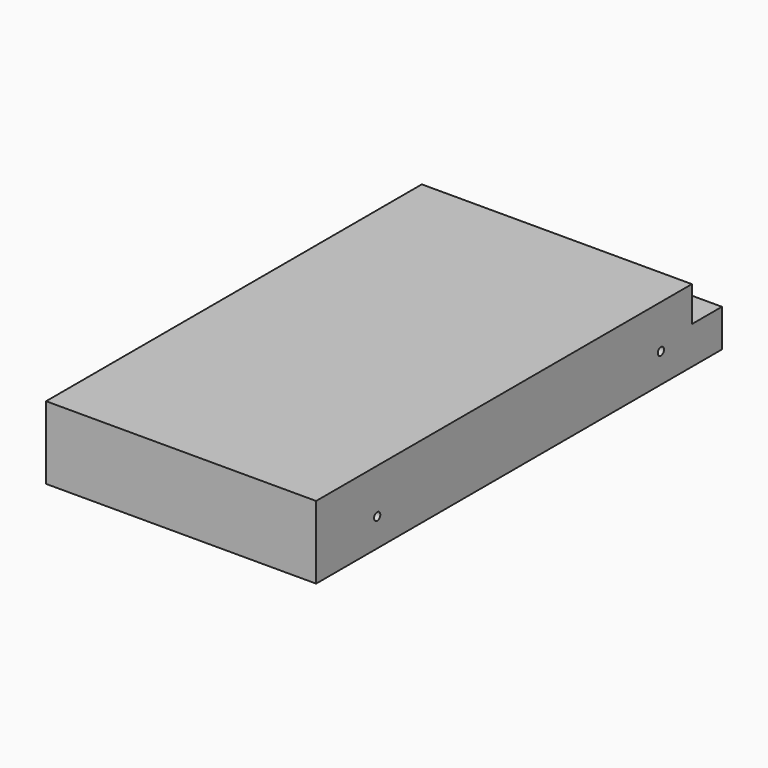
from build123d import *

# Parameters (mm, degrees)
F0_W      = 115
F0_H      = 216
F1_DEPTH  = 31
F3_W      = 115
F3_H      = 16
F4_DEPTH  = 15
F6_R      = 1.65
F7_DEPTH  = 5
F9_R      = 1.65
F10_DEPTH = 5


with BuildPart() as f1:
    # F0 (on Top) → F1 (new body)
    with BuildSketch(Plane.XY):
        Rectangle(F0_W, F0_H)
    extrude(amount=F1_DEPTH)

    # F3 (on offset) → F4 (cut)
    with BuildSketch(Plane.XY.offset(31)):
        with Locations((0, 100)):
            Rectangle(F3_W, F3_H)
    extrude(amount=-F4_DEPTH, mode=Mode.SUBTRACT)

    # F6 (on offset) → F7 (cut)
    with BuildSketch(Plane.YZ.offset(57.5)):
        with Locations((-75.5, 12)):
            Circle(F6_R)
        with Locations((75.5, 12.5)):
            Circle(F6_R)
    extrude(amount=-F7_DEPTH, mode=Mode.SUBTRACT)

    # F9 (on offset) → F10 (cut)
    with BuildSketch(Plane(origin=(-57.5, 0, 0), x_dir=(0, -1, 0), z_dir=(-1, 0, 0))):
        with Locations((75.5, 12.5)):
            Circle(F9_R)
        with Locations((-75.5, 12.5)):
            Circle(F9_R)
    extrude(amount=-F10_DEPTH, mode=Mode.SUBTRACT)


solid = f1.part
